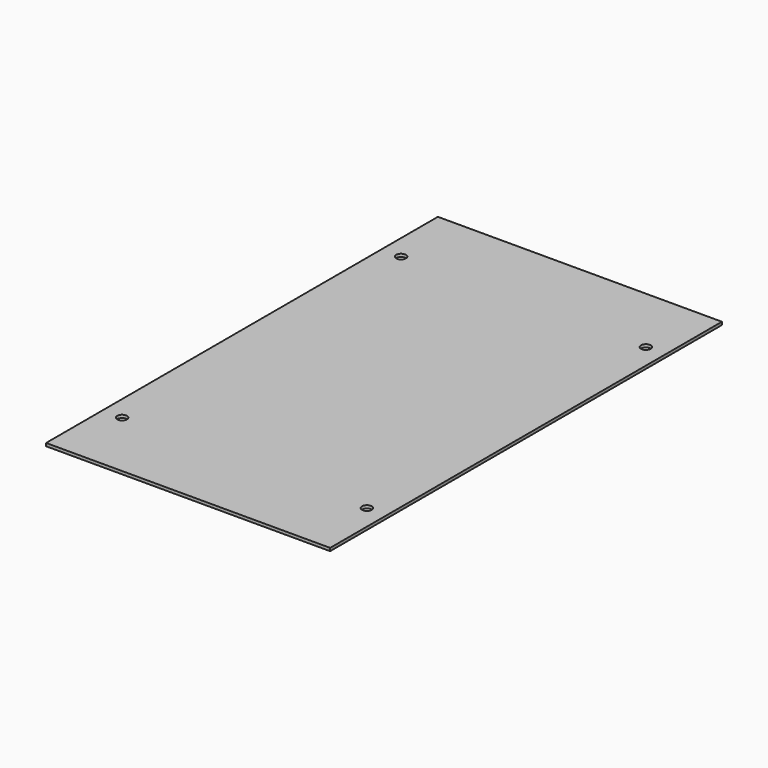
from build123d import *

# Parameters (mm, degrees)
F0_W     = 580
F0_H     = 1000
F0_R     = 10
F1_DEPTH = 6


with BuildPart() as f1:
    # F0 (on Top) → F1 (new body)
    with BuildSketch(Plane.XY):
        with Locations((3.632535, 0)):
            Rectangle(F0_W, F0_H)
        with Locations((-246.367465, -356)):
            Circle(F0_R, mode=Mode.SUBTRACT)
        with Locations((253.632535, -356)):
            Circle(F0_R, mode=Mode.SUBTRACT)
        with Locations((-246.367465, 356)):
            Circle(F0_R, mode=Mode.SUBTRACT)
        with Locations((253.632535, 356)):
            Circle(F0_R, mode=Mode.SUBTRACT)
        with Locations((3.632535, 0)):
            Rectangle(F0_W, F0_H)
        with Locations((-246.367465, -356)):
            Circle(F0_R, mode=Mode.SUBTRACT)
        with Locations((253.632535, -356)):
            Circle(F0_R, mode=Mode.SUBTRACT)
        with Locations((-246.367465, 356)):
            Circle(F0_R, mode=Mode.SUBTRACT)
        with Locations((253.632535, 356)):
            Circle(F0_R, mode=Mode.SUBTRACT)
    extrude(amount=F1_DEPTH)


solid = f1.part
